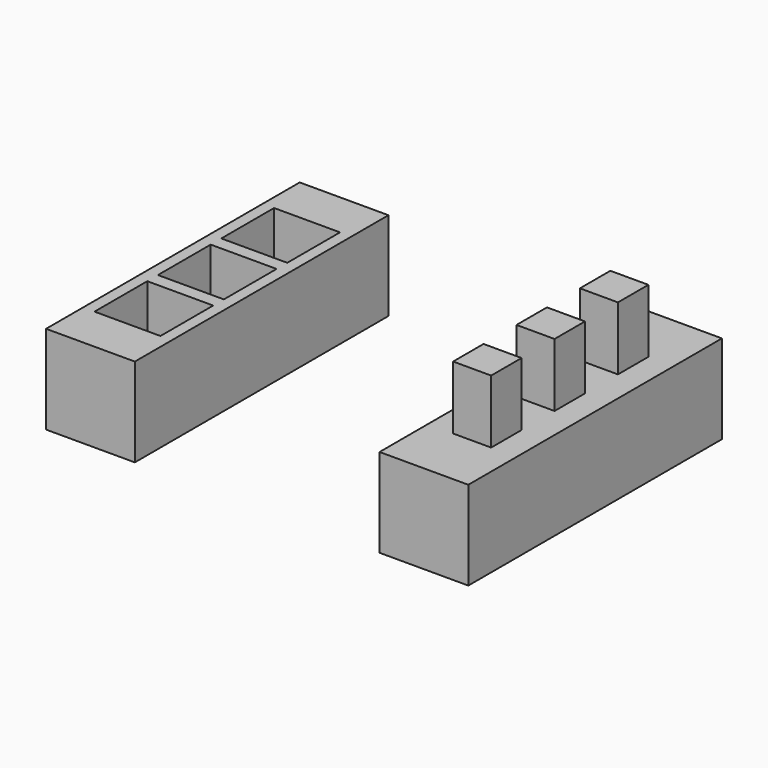
from build123d import *

# Parameters (mm, degrees)
F0_W     = 5.2
F0_H     = 5.2
F0_W_2   = 3
F0_H_2   = 3
F1_DEPTH = 7
F2_DEPTH = 12
F4_DEPTH = 7
F5_DEPTH = 2


with BuildPart() as f1:
    # F0 (on Top) → F1 (new body)
    with BuildSketch(Plane.XY):
        Polygon((7.7999999002, 14), (0.7999999002, 14), (0.7999999002, 1.5), (0.7999999002, -11), (7.7999999002, -11), align=None)
        with Locations((4.2999999002, -4.75)):
            Rectangle(F0_W, F0_H, mode=Mode.SUBTRACT)
        with Locations((4.2999999002, 1.5)):
            Rectangle(F0_W, F0_H, mode=Mode.SUBTRACT)
        with Locations((4.2999999002, 7.75)):
            Rectangle(F0_W, F0_H, mode=Mode.SUBTRACT)
        with Locations((4.2999999002, 7.75)):
            Rectangle(F0_W, F0_H)
        with Locations((4.2999999002, 7.75)):
            Rectangle(F0_W_2, F0_H_2, mode=Mode.SUBTRACT)
        with Locations((4.2999999002, 1.5)):
            Rectangle(F0_W, F0_H)
        with Locations((4.2999999002, 1.5)):
            Rectangle(F0_W_2, F0_H_2, mode=Mode.SUBTRACT)
        with Locations((4.2999999002, -4.75)):
            Rectangle(F0_W, F0_H)
        with Locations((4.2999999002, -4.75)):
            Rectangle(F0_W_2, F0_H_2, mode=Mode.SUBTRACT)
        with Locations((4.2999999002, 7.75)):
            Rectangle(F0_W_2, F0_H_2)
        with Locations((4.2999999002, 1.5)):
            Rectangle(F0_W_2, F0_H_2)
        with Locations((4.2999999002, -4.75)):
            Rectangle(F0_W_2, F0_H_2)
    extrude(amount=F1_DEPTH)

    # F0 (on Top) → F2 (join)
    with BuildSketch(Plane.XY):
        with Locations((4.2999999002, 7.75)):
            Rectangle(F0_W_2, F0_H_2)
        with Locations((4.2999999002, 1.5)):
            Rectangle(F0_W_2, F0_H_2)
        with Locations((4.2999999002, -4.75)):
            Rectangle(F0_W_2, F0_H_2)
    extrude(amount=F2_DEPTH)


with BuildPart() as f1_1:
    # F3: moved
    add(f1.part.moved(Location((26.3, 0, 0))))


with BuildPart() as f4:
    # F0 (on Top) → F4 (new body)
    with BuildSketch(Plane.XY):
        Polygon((7.7999999002, 14), (0.7999999002, 14), (0.7999999002, 1.5), (0.7999999002, -11), (7.7999999002, -11), align=None)
        with Locations((4.2999999002, -4.75)):
            Rectangle(F0_W, F0_H, mode=Mode.SUBTRACT)
        with Locations((4.2999999002, 1.5)):
            Rectangle(F0_W, F0_H, mode=Mode.SUBTRACT)
        with Locations((4.2999999002, 7.75)):
            Rectangle(F0_W, F0_H, mode=Mode.SUBTRACT)
    extrude(amount=F4_DEPTH)

    # F0 (on Top) → F5 (join)
    with BuildSketch(Plane.XY):
        Polygon((7.7999999002, 14), (0.7999999002, 14), (0.7999999002, 1.5), (0.7999999002, -11), (7.7999999002, -11), align=None)
        with Locations((4.2999999002, -4.75)):
            Rectangle(F0_W, F0_H, mode=Mode.SUBTRACT)
        with Locations((4.2999999002, 1.5)):
            Rectangle(F0_W, F0_H, mode=Mode.SUBTRACT)
        with Locations((4.2999999002, 7.75)):
            Rectangle(F0_W, F0_H, mode=Mode.SUBTRACT)
        with Locations((4.2999999002, 7.75)):
            Rectangle(F0_W, F0_H)
        with Locations((4.2999999002, 7.75)):
            Rectangle(F0_W_2, F0_H_2, mode=Mode.SUBTRACT)
        with Locations((4.2999999002, 1.5)):
            Rectangle(F0_W, F0_H)
        with Locations((4.2999999002, 1.5)):
            Rectangle(F0_W_2, F0_H_2, mode=Mode.SUBTRACT)
        with Locations((4.2999999002, -4.75)):
            Rectangle(F0_W, F0_H)
        with Locations((4.2999999002, -4.75)):
            Rectangle(F0_W_2, F0_H_2, mode=Mode.SUBTRACT)
        with Locations((4.2999999002, 7.75)):
            Rectangle(F0_W_2, F0_H_2)
        with Locations((4.2999999002, 1.5)):
            Rectangle(F0_W_2, F0_H_2)
        with Locations((4.2999999002, -4.75)):
            Rectangle(F0_W_2, F0_H_2)
    extrude(amount=F5_DEPTH)


solid = Compound([f1_1.part, f4.part])
